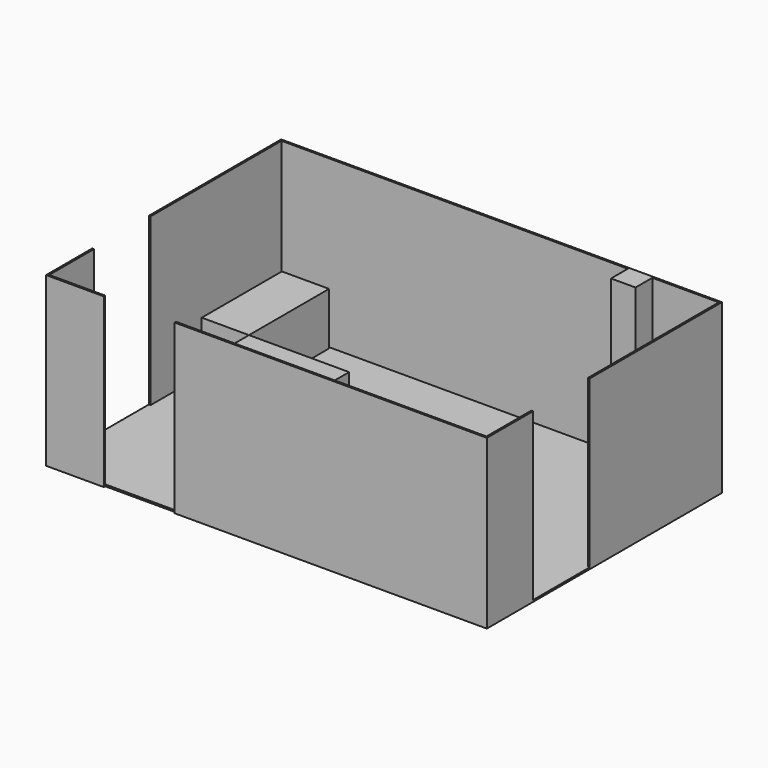
from build123d import *

# Parameters (mm, degrees)
F0_W      = 6400.8
F0_H      = 4267.2
F1_DEPTH  = 2438.4
F2_T      = -25.4
F3_W      = 1028.7
F3_H      = 2413
F4_DEPTH  = 6400.8
F5_W      = 1028.7
F5_H      = 2438.4
F6_DEPTH  = 25.4
F7_W      = 355.6
F7_H      = 304.8
F8_DEPTH  = 2413
F9_W      = 685.8
F9_H      = 1454.15
F10_DEPTH = 762
F11_W     = 1454.15
F11_H     = 685.8
F12_DEPTH = 762


with BuildPart() as f1:
    # F0 (on Top) → F1 (new body)
    with BuildSketch(Plane.XY):
        Rectangle(F0_W, F0_H)
    extrude(amount=F1_DEPTH)

    # F2
    f2_openings = [f1.faces().sort_by_distance(p)[0] for p in [
        (0, 0, 2438.4),
    ]]
    offset(amount=F2_T, openings=f2_openings)

    # F3 (on face) → F4 (cut, through all)
    with BuildSketch(Plane.YZ.offset(3200.4)):
        with Locations((-781.05, 1231.9)):
            Rectangle(F3_W, F3_H)
    extrude(amount=-F4_DEPTH, mode=Mode.SUBTRACT)

    # F5 (on face) → F6 (cut)
    with BuildSketch(Plane.XZ.offset(2133.6)):
        with Locations((-1847.85, 1219.2)):
            Rectangle(F5_W, F5_H)
    extrude(amount=-F6_DEPTH, mode=Mode.SUBTRACT)

    # F7 (on face) → F8 (join, through all)
    with BuildSketch(Plane.XY.offset(25.4)):
        with Locations((2032, 1955.8)):
            Rectangle(F7_W, F7_H)
    extrude(amount=F8_DEPTH)


with BuildPart() as f10:
    # F9 (on face) → F10 (new body)
    with BuildSketch(Plane.XY.offset(25.4)):
        with Locations((-2806.7, 1355.725)):
            Rectangle(F9_W, F9_H)
    extrude(amount=F10_DEPTH)


with BuildPart() as f12:
    # F11 (on face) → F12 (new body)
    with BuildSketch(Plane.XY.offset(25.4)):
        with Locations((-1736.725, 285.75)):
            Rectangle(F11_W, F11_H)
    extrude(amount=F12_DEPTH)


solid = Compound([f1.part, f10.part, f12.part])
